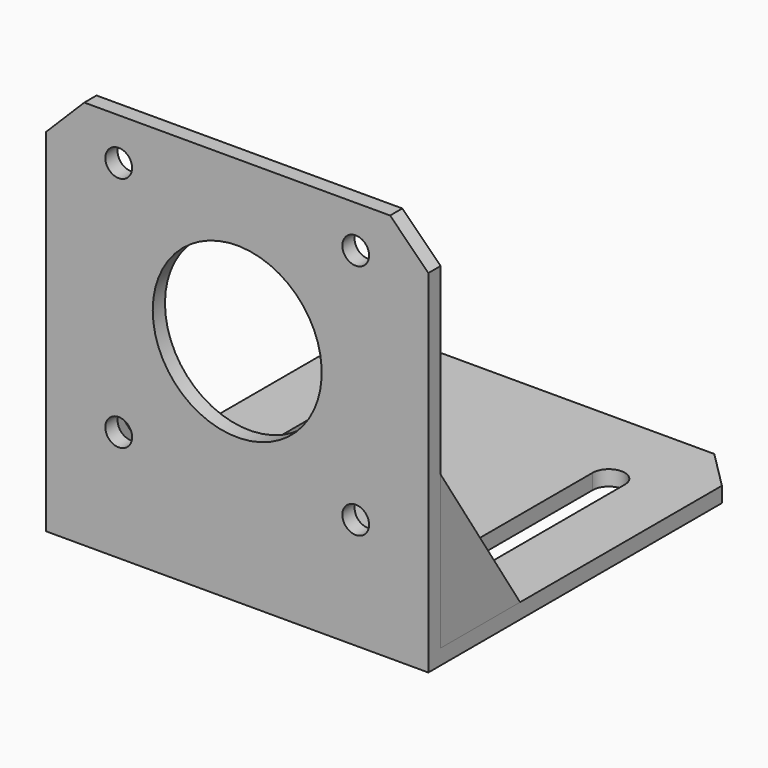
from build123d import *

# Parameters (mm, degrees)
F1_DEPTH  = 50
F2_R      = 11.05
F3_DEPTH  = 2
F5_D      = 3.5
F6_SIZE   = 5
F8_DEPTH  = 2
F9_SIZE   = 5
F10_SIZE  = 5
F12_DEPTH = 2
F14_DEPTH = 2


with BuildPart() as f1:
    # F0 (on Right) → F1 (new body)
    with BuildSketch(Plane.YZ):
        Polygon((2, 51), (0, 51), (0, 0), (53, 0), (53, 2), (2, 2), align=None)
    extrude(amount=-F1_DEPTH)

    # F2 (on face) → F3 (cut)
    with BuildSketch(Plane(origin=(0, 2, 0), x_dir=(-1, 0, 0), z_dir=(0, 1, 0))):
        with Locations((25, 30)):
            Circle(F2_R)
    extrude(amount=-F3_DEPTH, mode=Mode.SUBTRACT)

    # F5 (through all)
    with Locations(Plane.XZ):
        with Locations((-9.5, 45.5), (-40.5, 45.5), (-40.5, 14.5), (-9.5, 14.5)):
            Hole(F5_D / 2)

    # F6
    f6_edges = [f1.edges().sort_by_distance(p)[0] for p in [
        (0, 1, 51),
        (-50, 1, 51),
    ]]
    chamfer(f6_edges, length=F6_SIZE)

    # F7 (on face) → F8 (cut, through all)
    with BuildSketch(Plane.XY.offset(2)):
        with BuildLine():
            Line((-12.1, 42), (-12.1, 12))
            ThreePointArc((-12.1, 12), (-10, 9.9), (-7.9, 12))
            Line((-7.9, 12), (-7.9, 42))
            ThreePointArc((-7.9, 42), (-10, 44.1), (-12.1, 42))
        make_face()
        with BuildLine():
            ThreePointArc((-37.9, 42), (-40, 44.1), (-42.1, 42))
            Line((-42.1, 42), (-42.1, 12))
            ThreePointArc((-42.1, 12), (-40, 9.9), (-37.9, 12))
            Line((-37.9, 12), (-37.9, 42))
        make_face()
    extrude(amount=-F8_DEPTH, mode=Mode.SUBTRACT)

    # F9
    f9_edges = [f1.edges().sort_by_distance(p)[0] for p in [
        (-50, 53, 1),
    ]]
    chamfer(f9_edges, length=F9_SIZE)

    # F10
    f10_edges = [f1.edges().sort_by_distance(p)[0] for p in [
        (0, 53, 1),
    ]]
    chamfer(f10_edges, length=F10_SIZE)


with BuildPart() as f12:
    # F11 (on face) → F12 (new body)
    with BuildSketch(Plane.YZ):
        Polygon((2, 22), (2, 2), (15, 2), align=None)
    extrude(amount=-F12_DEPTH)


with BuildPart() as f14:
    # F13 (on face) → F14 (new body)
    with BuildSketch(Plane(origin=(-50, 0, 0), x_dir=(0, -1, 0), z_dir=(-1, 0, 0))):
        Polygon((-15, 2), (-2, 2), (-2, 22), align=None)
    extrude(amount=-F14_DEPTH)


solid = Compound([f1.part, f12.part, f14.part])
